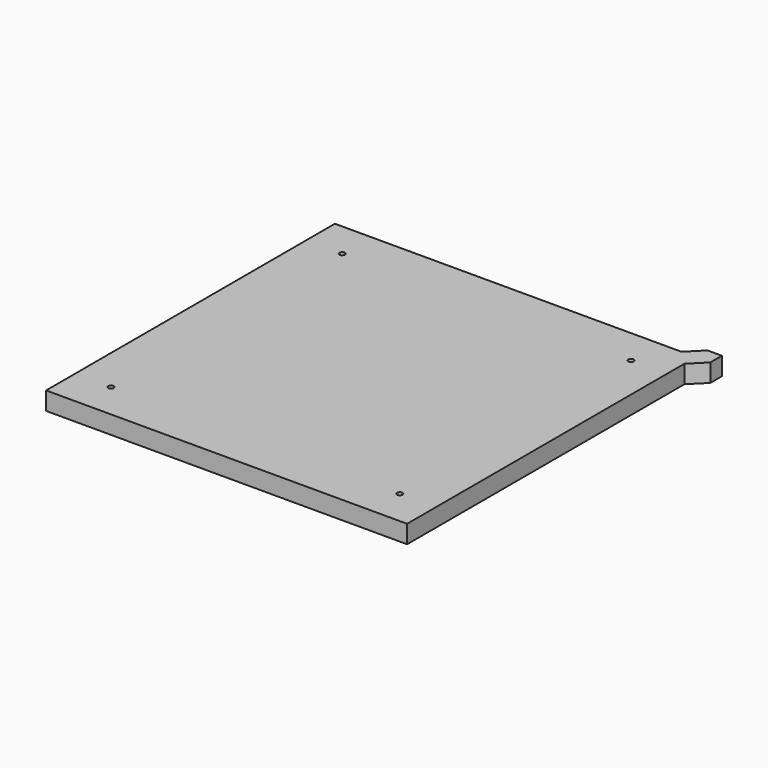
from build123d import *

# Parameters (mm, degrees)
F0_W     = 184
F0_H     = 184
F0_R     = 1.5
F0_W_2   = 8
F0_H_2   = 8
F1_DEPTH = 10


with BuildPart() as f1:
    # F0 (on Top) → F1 (new body)
    with BuildSketch(Plane.XY):
        Polygon((100, 92), (92, 92), (92, 100), (-100, 100), (-100, -100), (100, -100), align=None)
        Rectangle(F0_W, F0_H, mode=Mode.SUBTRACT)
        Rectangle(F0_W, F0_H)
        with Locations((-80, -80)):
            Circle(F0_R, mode=Mode.SUBTRACT)
        with Locations((80, -80)):
            Circle(F0_R, mode=Mode.SUBTRACT)
        with Locations((-80, 80)):
            Circle(F0_R, mode=Mode.SUBTRACT)
        with Locations((80, 80)):
            Circle(F0_R, mode=Mode.SUBTRACT)
        Polygon((100, 100), (100, 92), (108, 100), (108, 108), (100, 108), (92, 100), align=None)
        with Locations((96, 96)):
            Rectangle(F0_W_2, F0_H_2)
    extrude(amount=F1_DEPTH)


solid = f1.part
